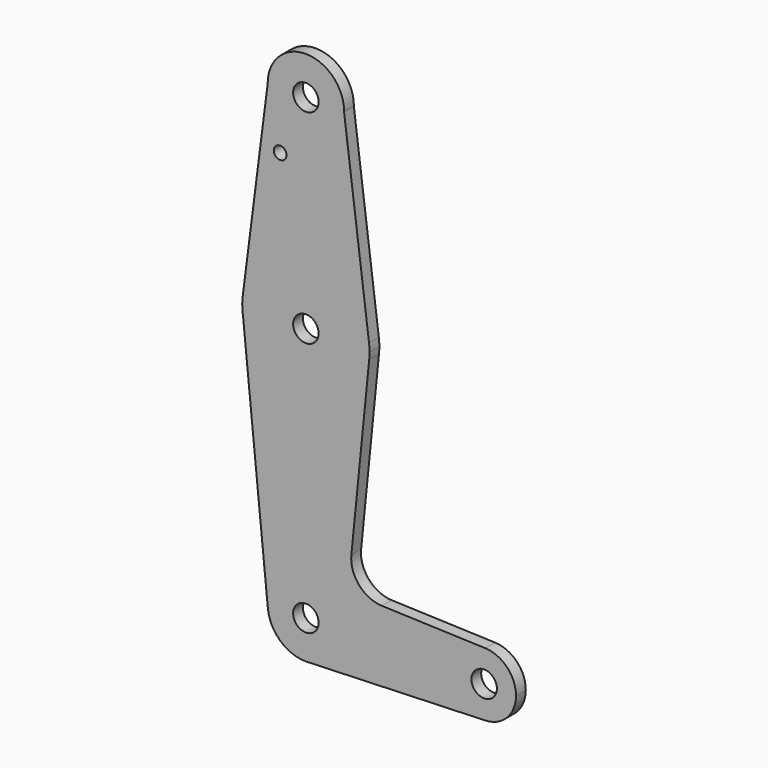
from build123d import *

# Parameters (mm, degrees)
F0_R     = 3.175
F0_R_2   = 1.5875
F1_DEPTH = 3.048


with BuildPart() as f1:
    # F0 (on Front) → F1 (new body)
    with BuildSketch(Plane.XZ):
        with BuildLine():
            ThreePointArc((9.524387, 93.850228), (9.524847, 93.904251), (9.525, 93.958276))
            ThreePointArc((9.525, 93.958276), (-0.063793, 103.483063), (-9.524146, 93.830693))
            ThreePointArc((-9.524146, 93.830693), (0.009768, 84.433281), (9.524387, 93.850228))
        make_face()
        with Locations((0, 93.958276)):
            Circle(F0_R, mode=Mode.SUBTRACT)
        with BuildLine():
            ThreePointArc((9.524387, 93.850228), (0.009768, 84.433281), (-9.524146, 93.830693))
            Line((-9.524146, 93.830693), (-15.746761, 45.172019))
            ThreePointArc((-15.746761, 45.172019), (0.00044, 59.033276), (15.746872, 45.171147))
            Line((15.746872, 45.171147), (9.524387, 93.850228))
        make_face()
        with Locations((-6.418294, 79.683476)):
            Circle(F0_R_2, mode=Mode.SUBTRACT)
        with BuildLine():
            ThreePointArc((15.746872, 45.171147), (0.00044, 59.033276), (-15.746761, 45.172019))
            ThreePointArc((-15.746761, 45.172019), (-15.869179, 42.728398), (-15.614647, 40.294989))
            ThreePointArc((-15.614647, 40.294989), (0.644266, 27.296355), (15.795426, 41.570776))
            ThreePointArc((15.795426, 41.570776), (15.855094, 42.36353), (15.875, 43.158276))
            ThreePointArc((15.875, 43.158276), (15.842936, 44.166748), (15.746872, 45.171147))
        make_face()
        with Locations((0, 43.158276)):
            Circle(F0_R, mode=Mode.SUBTRACT)
        with BuildLine():
            ThreePointArc((15.795426, 41.570776), (0.644266, 27.296355), (-15.614647, 40.294989))
            Line((-15.614647, 40.294989), (-9.478057, -21.286216))
            ThreePointArc((-9.478057, -21.286216), (-0.472829, -10.828467), (9.525, -20.341724))
            ThreePointArc((9.525, -20.341724), (6.970557, -26.833023), (0.677344, -29.842609))
            Line((0.677344, -29.842609), (44.732405, -28.274198))
            ThreePointArc((44.732405, -28.274198), (36.5125, -20.341724), (44.732405, -12.409249))
            Line((44.732405, -12.409249), (18.968328, -11.492018))
            ThreePointArc((18.968328, -11.492018), (13.261204, -8.774261), (11.340836, -2.751831))
            Line((11.340836, -2.751831), (15.795426, 41.570776))
        make_face()
        with BuildLine():
            ThreePointArc((9.525, -20.341724), (-0.472829, -10.828467), (-9.478057, -21.286216))
            ThreePointArc((-9.478057, -21.286216), (-6.392548, -27.402953), (0, -29.866724))
            Line((0, -29.866724), (0.677344, -29.842609))
            ThreePointArc((0.677344, -29.842609), (6.970557, -26.833023), (9.525, -20.341724))
        make_face()
        with Locations((0, -20.341724)):
            Circle(F0_R, mode=Mode.SUBTRACT)
        with BuildLine():
            Line((0.677344, -29.842609), (0, -29.866724))
            ThreePointArc((0, -29.866724), (0.338886, -29.860693), (0.677344, -29.842609))
        make_face()
        with BuildLine():
            ThreePointArc((52.3875, -20.341724), (50.161633, -14.829813), (44.732405, -12.409249))
            ThreePointArc((44.732405, -12.409249), (36.5125, -20.341724), (44.732405, -28.274198))
            ThreePointArc((44.732405, -28.274198), (50.161633, -25.853634), (52.3875, -20.341724))
        make_face()
        with Locations((44.45, -20.341724)):
            Circle(F0_R, mode=Mode.SUBTRACT)
    extrude(amount=F1_DEPTH)


solid = f1.part
